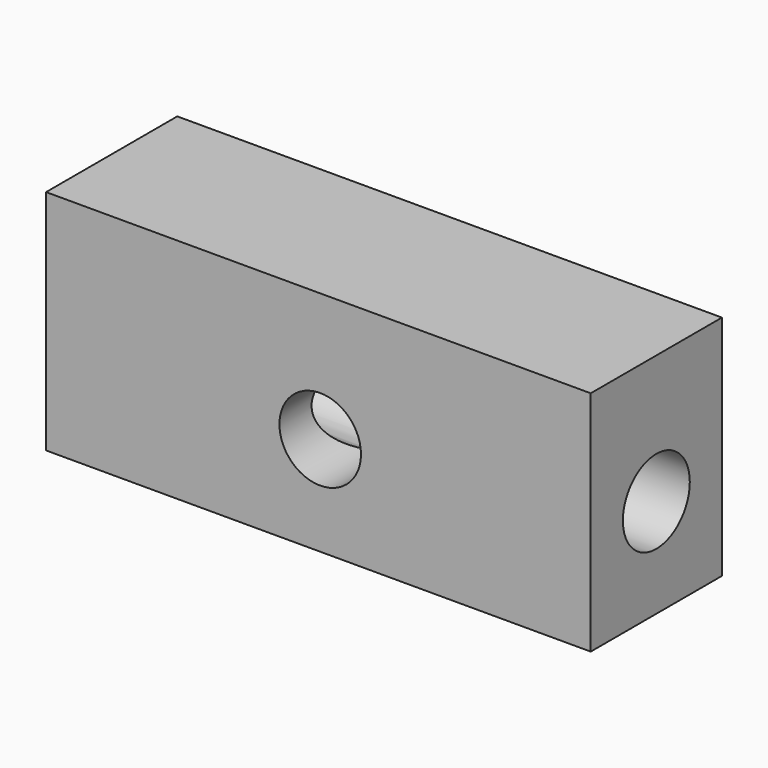
from build123d import *

# Parameters (mm, degrees)
F0_W     = 84.3636319041
F0_H     = 35.2298701182
F1_DEPTH = 25.4
F2_R     = 6.3162901038
F3_DEPTH = 25.401
F4_R     = 6.4811389114
F5_DEPTH = 84.3646319041


with BuildPart() as f1:
    # F0 (on Front) → F1 (new body)
    with BuildSketch(Plane.XZ):
        with Locations((-0.2784244716, 2.2862604819)):
            Rectangle(F0_W, F0_H)
    extrude(amount=F1_DEPTH)

    # F2 (on face) → F3 (cut, through all)
    with BuildSketch(Plane.XZ.offset(25.4)):
        Circle(F2_R)
    extrude(amount=-F3_DEPTH, mode=Mode.SUBTRACT)

    # F4 (on face) → F5 (cut, through all)
    with BuildSketch(Plane.YZ.offset(41.9033914804)):
        with Locations((-12.7, 0)):
            Circle(F4_R)
    extrude(amount=-F5_DEPTH, mode=Mode.SUBTRACT)


solid = f1.part
